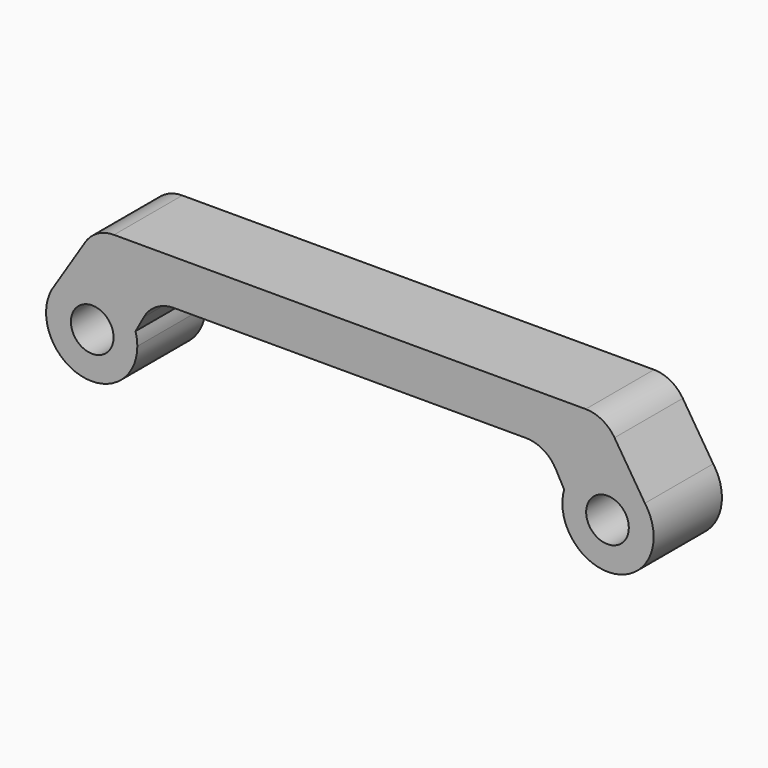
from build123d import *

# Parameters (mm, degrees)
F1_DEPTH = 20
F3_D     = 10
F4_DEPTH = 20
F6_D     = 10


with BuildPart() as f1:
    # F0 (on Front) → F1 (new body)
    with BuildSketch(Plane.XZ):
        with BuildLine():
            ThreePointArc((-69.147074, 6.296465), (-63.81471, -10.168074), (-49.810232, 0))
            ThreePointArc((-49.810232, 0), (-49.915818, 1.499006), (-50.230489, 2.96841))
            ThreePointArc((-50.230489, 2.96841), (-58.650888, 10.531798), (-69.147074, 6.296465))
        make_face()
    extrude(amount=F1_DEPTH)

    # F3 (through all)
    with Locations(Plane.XZ.offset(20)):
        with Locations((-60.503781, 0)):
            Hole(F3_D / 2)

    # F0 (on Front) → F4 (join)
    with BuildSketch(Plane.XZ):
        with BuildLine():
            ThreePointArc((-69.147074, 6.296465), (-63.81471, -10.168074), (-49.810232, 0))
            ThreePointArc((-49.810232, 0), (-49.915818, 1.499006), (-50.230489, 2.96841))
            ThreePointArc((-50.230489, 2.96841), (-58.650888, 10.531798), (-69.147074, 6.296465))
        make_face()
        with BuildLine():
            ThreePointArc((-69.147074, 6.296465), (-58.650888, 10.531798), (-50.230489, 2.96841))
            Line((-50.230489, 2.96841), (-48.257435, 6.552011))
            ThreePointArc((-48.257435, 6.552011), (-45.319574, 9.580772), (-41.249421, 10.693549))
            Line((-41.249421, 10.693549), (0, 10.693549))
            Line((0, 10.693549), (0, 21.212202))
            Line((0, 21.212202), (-55.27229, 21.212202))
            ThreePointArc((-55.27229, 21.212202), (-59.123882, 20.223994), (-62.023932, 17.503511))
            Line((-62.023932, 17.503511), (-69.147074, 6.296465))
        make_face()
    extrude(amount=F4_DEPTH)

    # F6 (through all)
    with Locations(Plane(origin=(0, 0, 0), x_dir=(1, 0, 0), z_dir=(0, 1, 0))):
        with Locations((-60.377855, 0)):
            Hole(F6_D / 2)

    # F7: F1 across plane


with BuildPart() as f1_1:
    add(f1.part)
    add(f1.part.mirror(Plane.YZ))


solid = f1_1.part
